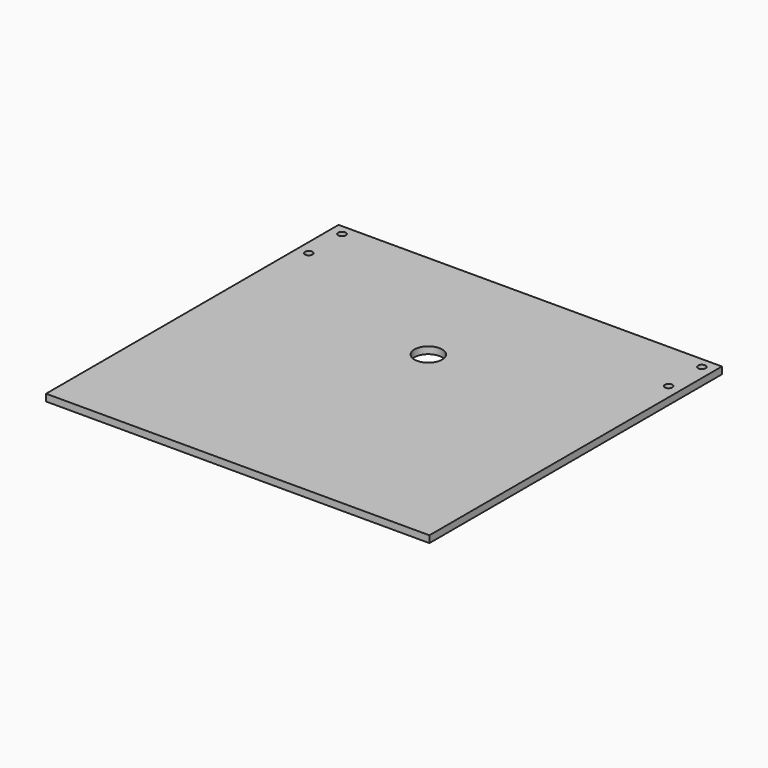
from build123d import *

# Parameters (mm, degrees)
F0_W     = 175.8696
F0_H     = 167.724226
F0_R     = 1.7272
F0_R_2   = 6.35
F1_DEPTH = 3.175


with BuildPart() as f1:
    # F0 (on Top) → F1 (new body)
    with BuildSketch(Plane.XY):
        Rectangle(F0_W, F0_H)
        with Locations((-82.5373, 60.049613)):
            Circle(F0_R, mode=Mode.SUBTRACT)
        with Locations((-82.5373, 79.099613)):
            Circle(F0_R, mode=Mode.SUBTRACT)
        with Locations((0, 25.4)):
            Circle(F0_R_2, mode=Mode.SUBTRACT)
        with Locations((82.5373, 60.049613)):
            Circle(F0_R, mode=Mode.SUBTRACT)
        with Locations((82.5373, 79.099613)):
            Circle(F0_R, mode=Mode.SUBTRACT)
    extrude(amount=F1_DEPTH)


solid = f1.part
